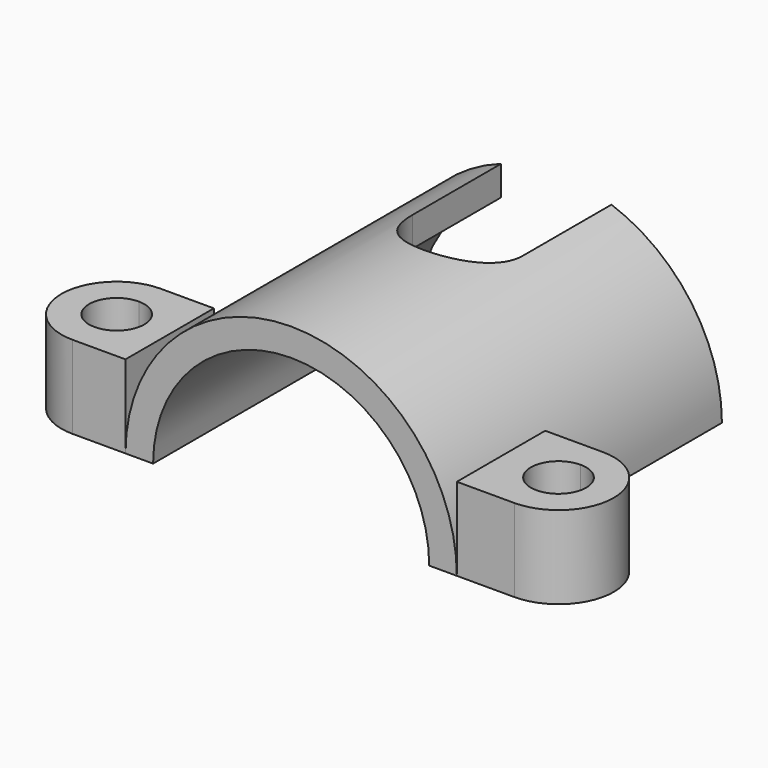
from build123d import *

# Parameters (mm, degrees)
F1_DEPTH = 60
F2_W     = 20
F2_H     = 40
F3_DEPTH = 30.001
F5_DEPTH = 15


with BuildPart() as f1:
    # F0 (on Front) → F1 (new body)
    with BuildSketch(Plane.XZ):
        with BuildLine():
            Line((25, 0), (30, 0))
            ThreePointArc((30, 0), (0, 30), (-30, 0))
            Line((-30, 0), (-25, 0))
            ThreePointArc((-25, 0), (0, 25), (25, 0))
        make_face()
    extrude(amount=F1_DEPTH)

    # F2 (on Top) → F3 (cut, through all)
    with BuildSketch(Plane.XY):
        Rectangle(F2_W, F2_H)
        with BuildLine():
            Line((10, -20), (-10, -20))
            ThreePointArc((-10, -20), (0, -30), (10, -20))
        make_face()
    extrude(amount=F3_DEPTH, mode=Mode.SUBTRACT)


with BuildPart() as f5:
    # F4 (on Top) → F5 (new body)
    with BuildSketch(Plane.XY):
        with BuildLine():
            Line((-30, -40), (-39.589307, -40))
            Line((-39.589307, -40), (-39.589307, -45))
            ThreePointArc((-39.589307, -45), (-36.053773, -46.464466), (-34.589307, -50))
            ThreePointArc((-34.589307, -50), (-36.053773, -53.535534), (-39.589307, -55))
            Line((-39.589307, -55), (-39.589307, -60))
            Line((-39.589307, -60), (-30, -60))
            Line((-30, -60), (-30, -40))
        make_face()
        with BuildLine():
            Line((-39.589307, -45), (-39.589307, -40))
            ThreePointArc((-39.589307, -40), (-49.589307, -50), (-39.589307, -60))
            Line((-39.589307, -60), (-39.589307, -55))
            ThreePointArc((-39.589307, -55), (-44.589307, -50), (-39.589307, -45))
        make_face()
        with BuildLine():
            Line((40.410693, -45), (40.410693, -40))
            Line((40.410693, -40), (30, -40))
            Line((30, -40), (30, -60))
            Line((30, -60), (40.410693, -60))
            Line((40.410693, -60), (40.410693, -55))
            ThreePointArc((40.410693, -55), (35.410693, -50), (40.410693, -45))
        make_face()
        with BuildLine():
            ThreePointArc((40.410693, -60), (50.410693, -50), (40.410693, -40))
            Line((40.410693, -40), (40.410693, -45))
            ThreePointArc((40.410693, -45), (43.946227, -46.464466), (45.410693, -50))
            ThreePointArc((45.410693, -50), (43.946227, -53.535534), (40.410693, -55))
            Line((40.410693, -55), (40.410693, -60))
        make_face()
    extrude(amount=F5_DEPTH)


solid = Compound([f1.part, f5.part])
